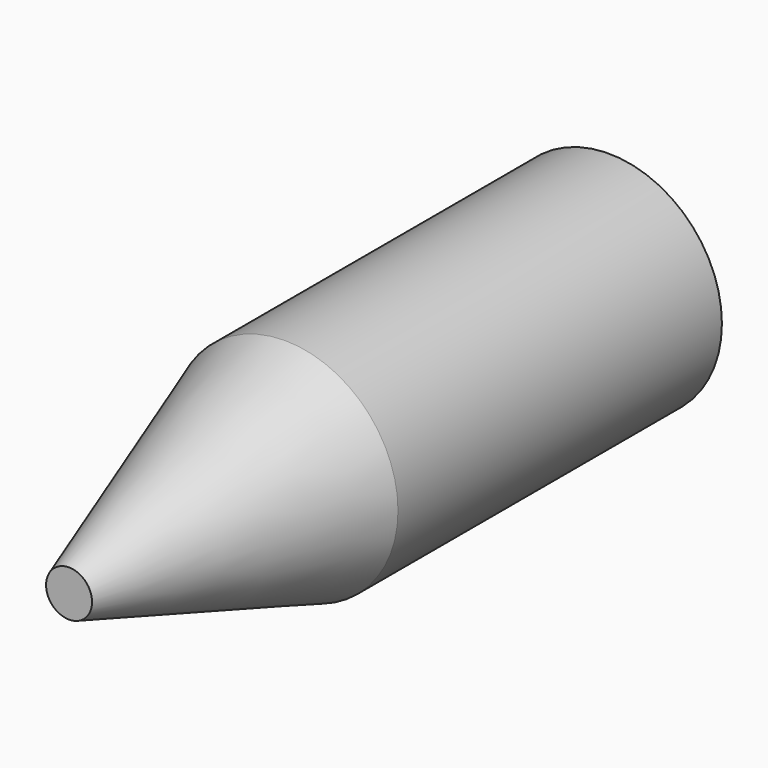
from build123d import *

# Parameters (mm, degrees)
F0_R     = 63.77929
F1_DEPTH = 381


with BuildPart() as f1:
    # F0 (on Front) → F1 (new body)
    with BuildSketch(Plane.XZ):
        Circle(F0_R)
    extrude(amount=F1_DEPTH)

    # F2 (on Right) → F3 (revolve, cut)
    with BuildSketch(Plane.YZ):
        Polygon((-381, 63.77929), (-381, 12.97929), (-228.6, 63.77929), align=None)
    revolve(axis=Axis((0, -230.445445, 0), (0, -1, 0)), mode=Mode.SUBTRACT)


solid = f1.part
